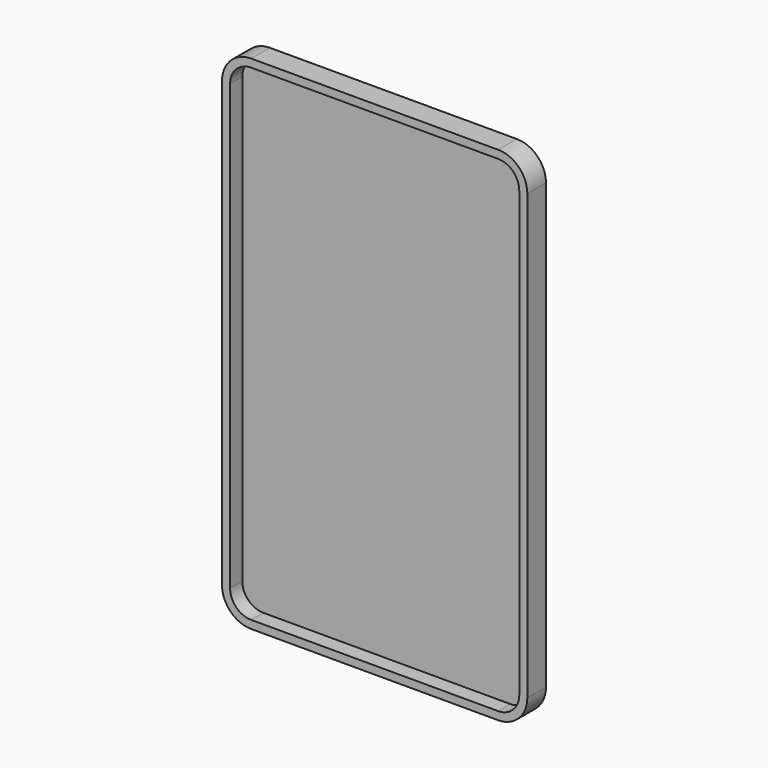
from build123d import *

# Parameters (mm, degrees)
F1_DEPTH = 7.366
F2_T     = -2.54


with BuildPart() as f1:
    # F0 (on Front) → F1 (new body)
    with BuildSketch(Plane.XZ):
        with BuildLine():
            Line((28.482914, 85.547157), (-49.561864, 85.547157))
            ThreePointArc((-49.561864, 85.547157), (-56.063957, 82.853901), (-58.757212, 76.351808))
            Line((-58.757212, 76.351808), (-58.757212, -63.910645))
            ThreePointArc((-58.757212, -63.910645), (-56.064117, -70.412351), (-49.562412, -73.105445))
            Line((-49.562412, -73.105445), (28.483462, -73.105445))
            ThreePointArc((28.483462, -73.105445), (34.985168, -70.412351), (37.678262, -63.910645))
            Line((37.678262, -63.910645), (37.678262, 76.351808))
            ThreePointArc((37.678262, 76.351808), (34.985007, 82.853901), (28.482914, 85.547157))
        make_face()
    extrude(amount=F1_DEPTH)

    # F2
    f2_openings = [f1.faces().sort_by_distance(p)[0] for p in [
        (-10.539475, -7.366, 6.220834),
    ]]
    offset(amount=F2_T, openings=f2_openings)


solid = f1.part
